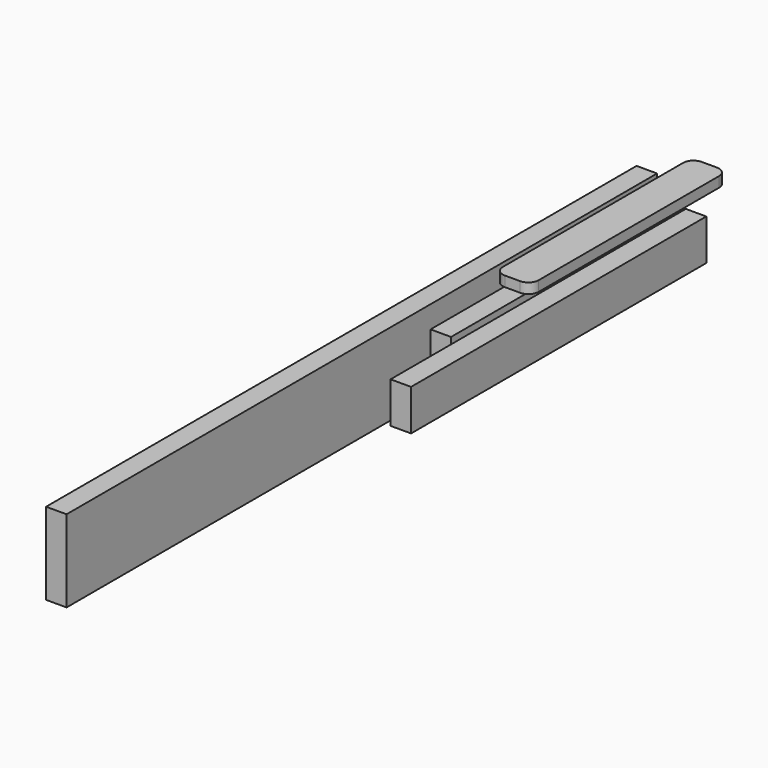
from build123d import *

# Parameters (mm, degrees)
F0_W     = 50.8
F0_H     = 101.6
F1_DEPTH = 711.2
F2_W     = 50.8
F2_H     = 101.6
F3_DEPTH = 812.8
F4_W     = 50.8
F4_H     = 203.2
F5_DEPTH = 914.4
F6_DEPTH = 1828.8
F7_DEPTH = 914.4
F8_W     = 88.9
F8_H     = 25.4
F9_DEPTH = 609.6
F10_R    = 25.4


with BuildPart() as f1:
    # F0 (on Front) → F1 (new body)
    with BuildSketch(Plane.XZ):
        Rectangle(F0_W, F0_H)
    extrude(amount=F1_DEPTH)


with BuildPart() as f3:
    # F2 (on Front) → F3 (new body)
    with BuildSketch(Plane.XZ):
        with Locations((63.45287, -5.673663)):
            Rectangle(F2_W, F2_H)
    extrude(amount=F3_DEPTH)


with BuildPart() as f5:
    # F4 (on Front) → F5 (new body)
    with BuildSketch(Plane.XZ):
        with Locations((-58.513474, -2.32867)):
            Rectangle(F4_W, F4_H)
    extrude(amount=F5_DEPTH)


with BuildPart() as f6:
    # F4 (on Front) → F6 (new body)
    with BuildSketch(Plane.XZ):
        with Locations((-58.513474, -2.32867)):
            Rectangle(F4_W, F4_H)
    extrude(amount=F6_DEPTH)


with BuildPart() as f7:
    # F2 (on Front) → F7 (new body)
    with BuildSketch(Plane.XZ):
        with Locations((63.45287, -5.673663)):
            Rectangle(F2_W, F2_H)
    extrude(amount=F7_DEPTH)


with BuildPart() as f9:
    # F8 (on Front) → F9 (new body)
    with BuildSketch(Plane.XZ):
        with Locations((96.331083, 147.745244)):
            Rectangle(F8_W, F8_H)
    extrude(amount=F9_DEPTH)

    # F10
    f10_edges = [f9.edges().sort_by_distance(p)[0] for p in [
        (140.781083, 0, 147.745244),
        (51.881083, 0, 147.745244),
        (51.881083, -609.6, 147.745244),
        (140.781083, -609.6, 147.745244),
    ]]
    fillet(f10_edges, radius=F10_R)


solid = Compound([f1.part, f3.part, f5.part, f6.part, f7.part, f9.part])
